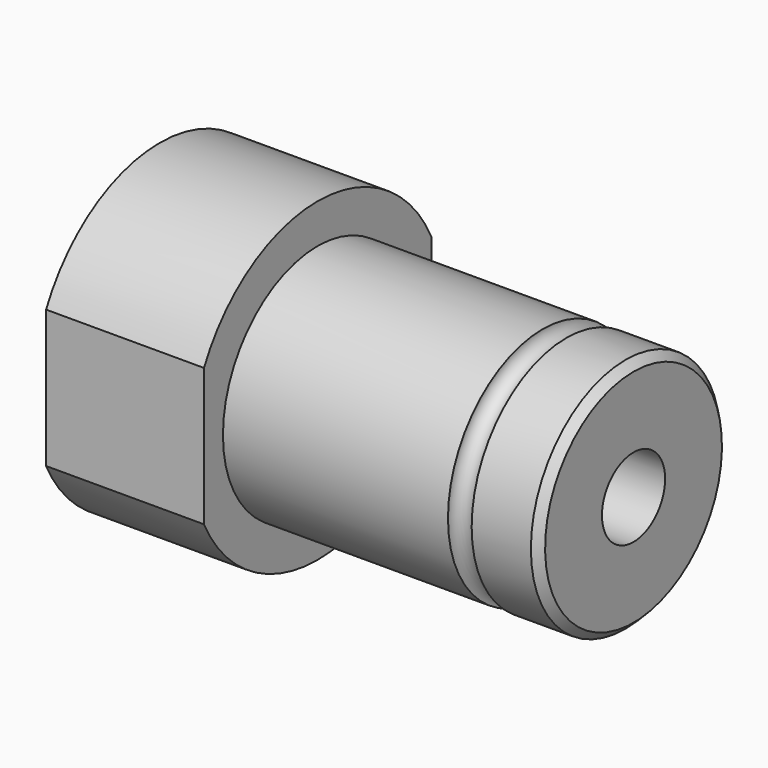
from build123d import *

# Parameters (mm, degrees)
F2_R     = 1.5
F4_SIZE  = 1
F5_R     = 5
F6_DEPTH = 60
F8_DEPTH = 20


with BuildPart() as f1:
    # F0 (on Front) → F1 (revolve)
    with BuildSketch(Plane.XZ):
        Polygon((-37.1544710372, 20), (-37.1544710372, 0), (22.8455289628, 0), (22.8455289628, 15), (-17.1544710372, 15), (-17.1544710372, 20), align=None)
    revolve(axis=Axis((0.3662798554, 0, 0), (1, 0, 0)))

    # F2 (on Front) → F3 (revolve, cut)
    with BuildSketch(Plane.XZ):
        with Locations((12.8455289628, 15)):
            Circle(F2_R)
    revolve(axis=Axis((3.7326607853, 0, 0), (1, 0, 0)), mode=Mode.SUBTRACT)

    # F4
    f4_edges = [f1.edges().sort_by_distance(p)[0] for p in [
        (22.845529, 0, -15),
    ]]
    chamfer(f4_edges, length=F4_SIZE)

    # F5 (on face) → F6 (cut, through all)
    with BuildSketch(Plane.YZ.offset(22.8455289628)):
        Circle(F5_R)
    extrude(amount=-F6_DEPTH, mode=Mode.SUBTRACT)

    # F7 (on face) → F8 (cut, through all)
    with BuildSketch(Plane(origin=(-37.1544710372, 0, 0), x_dir=(0, -1, 0), z_dir=(-1, 0, 0))):
        with BuildLine():
            ThreePointArc((20, 0), (19.4935886896, 4.472135955), (18, 8.7177978871))
            Line((18, 8.7177978871), (18, -8.7177978871))
            ThreePointArc((18, -8.7177978871), (19.4935886896, -4.472135955), (20, 0))
        make_face()
        with BuildLine():
            Line((-18, -8.7177978871), (-18, 8.7177978871))
            ThreePointArc((-18, 8.7177978871), (-20, 0), (-18, -8.7177978871))
        make_face()
    extrude(amount=-F8_DEPTH, mode=Mode.SUBTRACT)


solid = f1.part
